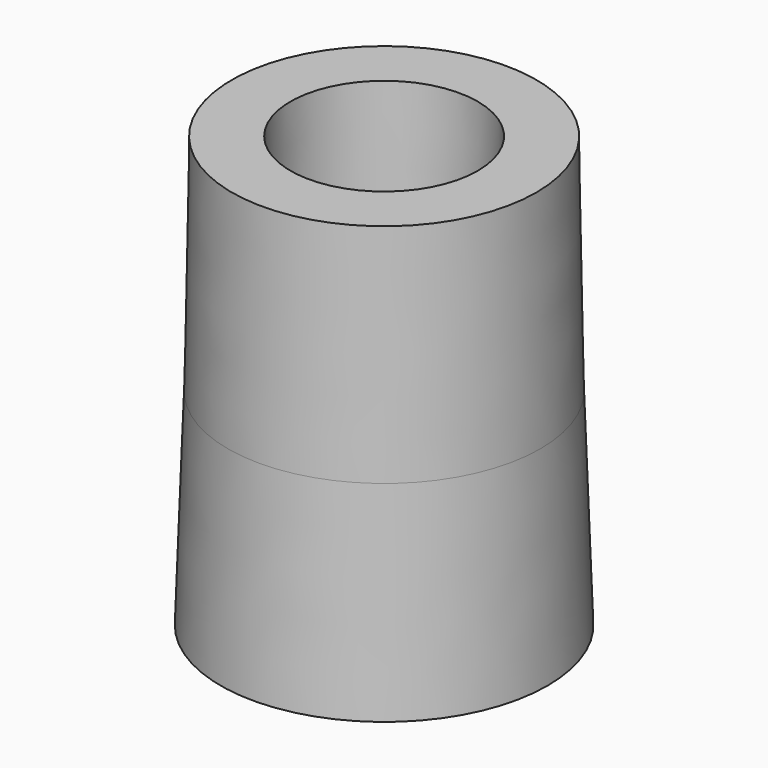
from build123d import *

# Parameters (mm, degrees)
F0_R     = 27.75
F1_DEPTH = 35
F1_TAPER = 2
F2_R     = 25.25
F3_DEPTH = 35.001
F3_TAPER = 1.5
F4_R     = 26.5277730678
F4_R_2   = 15.24
F5_DEPTH = 38.1
F5_TAPER = 1


with BuildPart() as f1:
    # F0 (on Top) → F1 (new body)
    with BuildSketch(Plane.XY):
        Circle(F0_R)
    extrude(amount=F1_DEPTH, taper=F1_TAPER)

    # F2 (on face) → F3 (cut, through all)
    with BuildSketch(Plane(origin=(0, 0, 0), x_dir=(1, 0, 0), z_dir=(0, 0, -1))):
        Circle(F2_R)
    extrude(amount=-F3_DEPTH, taper=F3_TAPER, mode=Mode.SUBTRACT)

    # F4 (on face) → F5 (join)
    with BuildSketch(Plane.XY.offset(35)):
        Circle(F4_R)
        Circle(F4_R_2, mode=Mode.SUBTRACT)
    extrude(amount=F5_DEPTH, taper=F5_TAPER)


solid = f1.part
